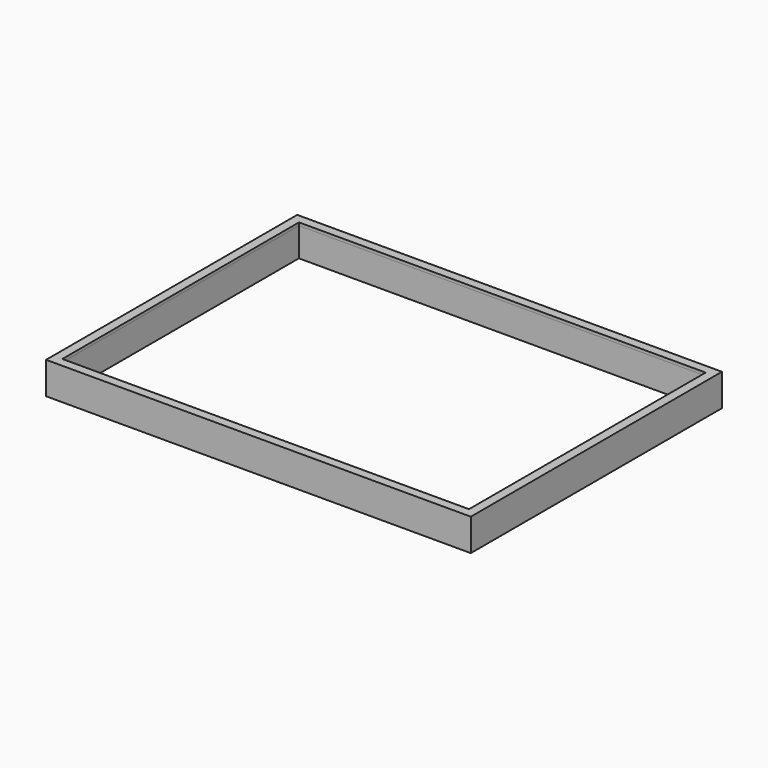
from build123d import *

# Parameters (mm, degrees)
F0_W     = 145.514168
F0_H     = 107.53687
F0_W_2   = 139.31417
F0_H_2   = 101.336874
F1_DEPTH = 11
F2_W     = 139.714174
F2_H     = 101.736876
F2_W_2   = 139.31417
F2_H_2   = 101.336874
F3_DEPTH = 10


with BuildPart() as f1:
    # F0 (on Top) → F1 (new body)
    with BuildSketch(Plane.XY):
        Rectangle(F0_W, F0_H)
        Rectangle(F0_W_2, F0_H_2, mode=Mode.SUBTRACT)
    extrude(amount=F1_DEPTH)

    # F2 (on Top) → F3 (cut)
    with BuildSketch(Plane.XY):
        Rectangle(F2_W, F2_H)
        Rectangle(F2_W_2, F2_H_2, mode=Mode.SUBTRACT)
    extrude(amount=F3_DEPTH, mode=Mode.SUBTRACT)


solid = f1.part
